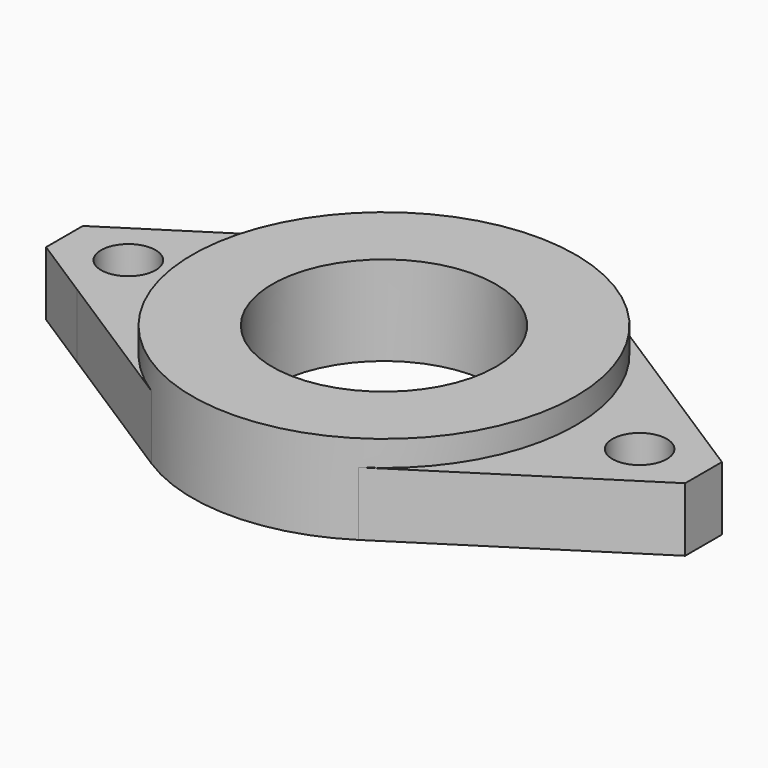
from build123d import *

# Parameters (mm, degrees)
F0_R     = 9.525
F0_R_2   = 5.55625
F1_DEPTH = 4.445
F2_R     = 1.35255
F3_DEPTH = 3.175


with BuildPart() as f1:
    # F0 (on Top) → F1 (new body)
    with BuildSketch(Plane.XY):
        Circle(F0_R)
        Circle(F0_R_2, mode=Mode.SUBTRACT)
    extrude(amount=F1_DEPTH)

    # F2 (on face) → F3 (join)
    with BuildSketch(Plane(origin=(0, 0, 0), x_dir=(1, 0, 0), z_dir=(0, 0, -1))):
        with BuildLine():
            Line((-5.1387783316, 8.0198866737), (-12.7, 3.175))
            Line((-12.7, 3.175), (-15.875, 1.1406045195))
            Line((-15.875, 1.1406045195), (-15.875, -1.1406045195))
            Line((-15.875, -1.1406045195), (-12.7, -3.175))
            Line((-12.7, -3.175), (-5.1387783316, -8.0198866737))
            ThreePointArc((-5.1387783316, -8.0198866737), (-9.525, 0), (-5.1387783316, 8.0198866737))
        make_face()
        with Locations((-12.7, 0)):
            Circle(F2_R, mode=Mode.SUBTRACT)
        with BuildLine():
            Line((15.875, 1.1406045195), (5.1387783316, 8.0198866737))
            ThreePointArc((5.1387783316, 8.0198866737), (8.3568082606, 4.570490203), (9.525, 0))
            ThreePointArc((9.525, 0), (8.3568082606, -4.570490203), (5.1387783316, -8.0198866737))
            Line((5.1387783316, -8.0198866737), (15.875, -1.1406045195))
            Line((15.875, -1.1406045195), (15.875, 1.1406045195))
        make_face()
        with Locations((12.7, 0)):
            Circle(F2_R, mode=Mode.SUBTRACT)
    extrude(amount=-F3_DEPTH)


solid = f1.part
